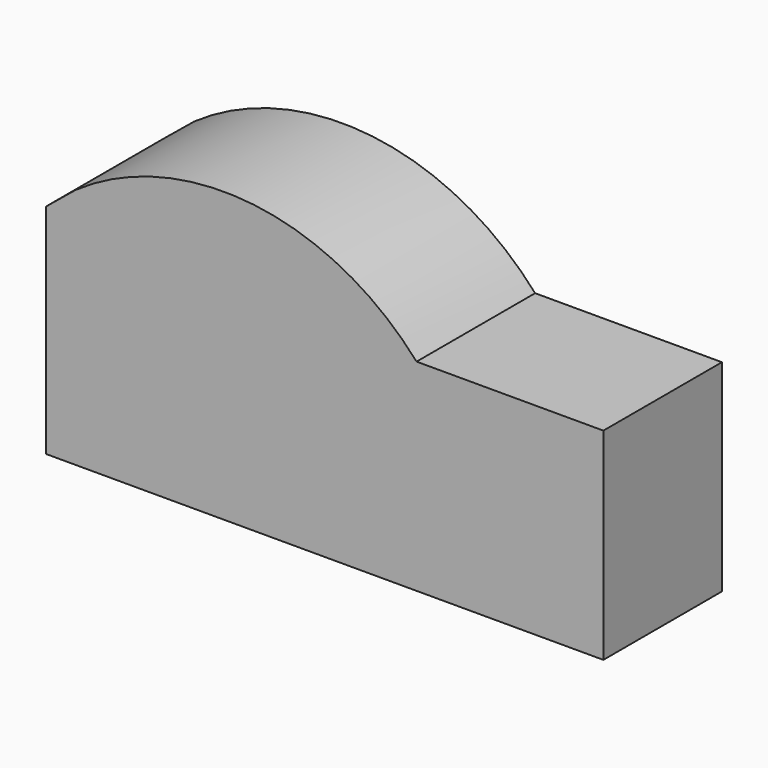
from build123d import *

# Parameters (mm, degrees)
F1_DEPTH = 12.7


with BuildPart() as f1:
    # F0 (on Front) → F1 (new body, symmetric)
    with BuildSketch(Plane.XZ):
        with BuildLine():
            Line((-63.5, 34.4180623237), (32.016806888, 34.4180623237))
            Line((32.016806888, 34.4180623237), (32.016806888, 69.0101948619))
            Line((32.016806888, 69.0101948619), (0, 69.0101948619))
            ThreePointArc((0, 69.0101948619), (-27.8940208661, 83.6123583705), (-58.4252133702, 75.9217235792))
            add(Edge.make_bspline(
                [(-63.5, 71.771000415), (-61.8079017418, 73.1557863165), (-60.1158034836, 74.540572218), (-58.4252133702, 75.9217235792)],
                knots=[0, 0, 0, 0, 0.0235260639, 0.0235260639, 0.0235260639, 0.0235260639], degree=3))
            Line((-63.5, 71.771000415), (-63.5, 34.4180623237))
        make_face()
    extrude(amount=F1_DEPTH, both=True)


solid = f1.part
